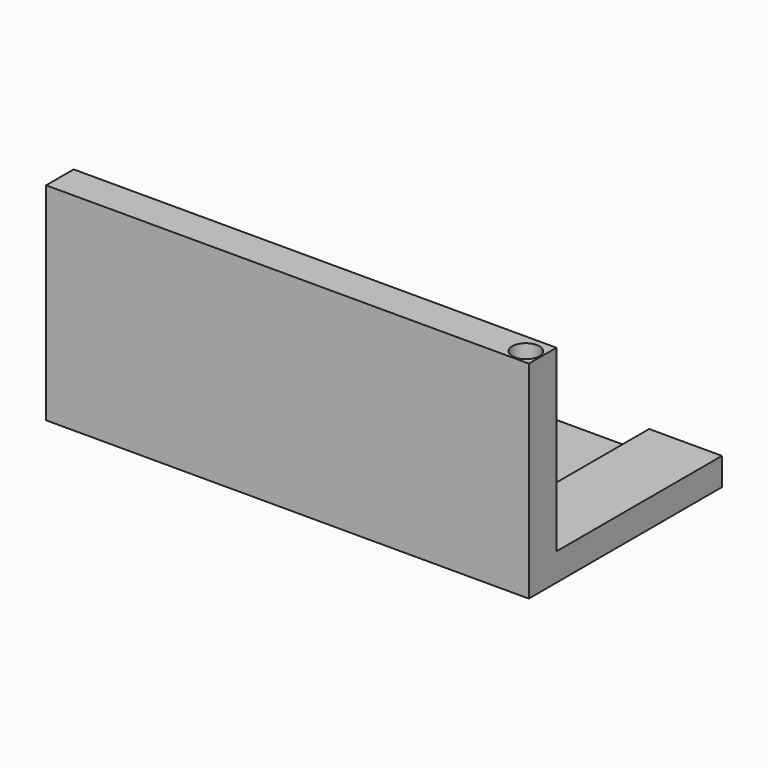
from build123d import *

# Parameters (mm, degrees)
F0_W          = 88.9
F0_H          = 38.1
F1_DEPTH      = 44.45
F2_W          = 38.1
F2_H          = 33.02
F3_DEPTH      = 88.901
F4_W          = 5.5
F4_H          = 5.5
F5_DEPTH      = 36.068
F6_R          = 2.5
F7_DEPTH      = 37.3126
F7_DEPTH_BACK = 1
F9_DEPTH      = 38.1


with BuildPart() as f1:
    # F0 (on Front) → F1 (new body)
    with BuildSketch(Plane.XZ):
        with Locations((0.251959, 0.828608)):
            Rectangle(F0_W, F0_H)
    extrude(amount=F1_DEPTH)

    # F2 (on face) → F3 (cut, through all)
    with BuildSketch(Plane.YZ.offset(44.701959)):
        with Locations((-19.05, 3.368608)):
            Rectangle(F2_W, F2_H)
    extrude(amount=-F3_DEPTH, mode=Mode.SUBTRACT)

    # F4 (on face) → F5 (join)
    with BuildSketch(Plane.XY.offset(19.878608)):
        with Locations((41.951959, -41.7)):
            Rectangle(F4_W, F4_H)
    extrude(amount=-F5_DEPTH)

    # F6 (on face) → F7 (cut, two sides)
    with BuildSketch(Plane.XY.offset(19.878608)) as f7_sk:
        with Locations((41.951959, -41.7)):
            Circle(F6_R)
    extrude(amount=-F7_DEPTH, mode=Mode.SUBTRACT)
    extrude(f7_sk.sketch, amount=-F7_DEPTH_BACK, mode=Mode.SUBTRACT)

    # F8 (on face) → F9 (cut)
    with BuildSketch(Plane(origin=(0, 0, 0), x_dir=(-1, 0, 0), z_dir=(0, 1, 0))):
        Polygon((-34.6075, -14.208194), (-34.6075, -17.227376), (35.2425, -17.227376), (35.2425, -14.208194), (31.940609, -14.181392), (31.940609, -13.141392), (-31.302892, -13.141392), (-31.302892, -14.181392), align=None)
    extrude(amount=-F9_DEPTH, mode=Mode.SUBTRACT)


solid = f1.part
